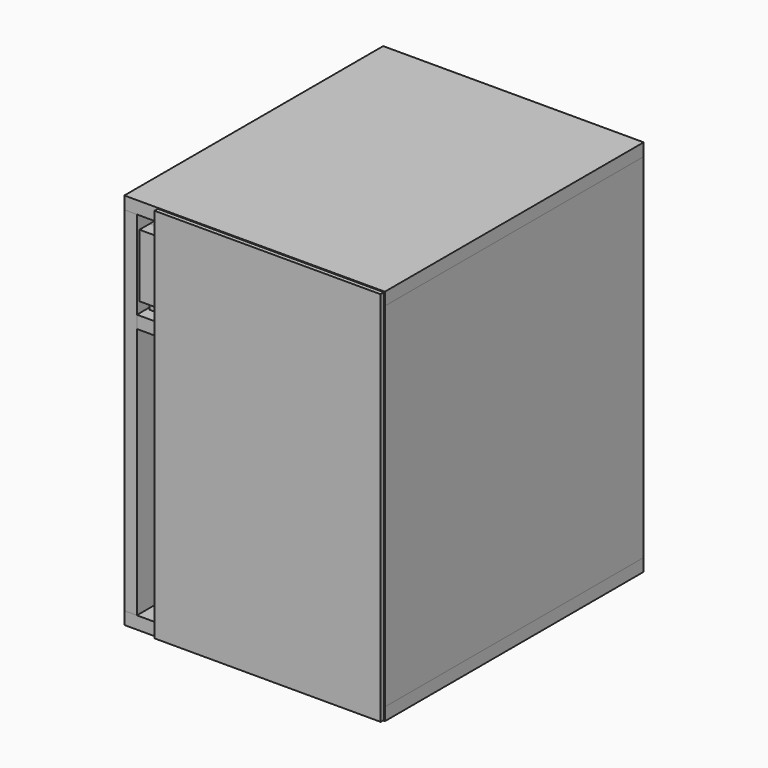
from build123d import *

# Parameters (mm, degrees)
F0_W      = 310
F0_H      = 385
F1_DEPTH  = 15
F2_W      = 15
F2_H      = 385
F3_DEPTH  = 420
F5_W      = 280
F5_H      = 385
F6_DEPTH  = 15
F7_W      = 310
F7_H      = 385
F8_DEPTH  = 15
F9_W      = 269
F9_H      = 448
F10_DEPTH = 5
F11_W     = 274
F11_H     = 100
F12_DEPTH = 15
F13_W     = 274
F13_H     = 15
F14_DEPTH = 355
F15_W     = 274
F15_H     = 75
F16_DEPTH = 15
F17_W     = 15
F17_H     = 355
F18_DEPTH = 75


with BuildPart() as f1:
    # F0 (on Top) → F1 (new body)
    with BuildSketch(Plane.XY):
        with Locations((155, 192.5)):
            Rectangle(F0_W, F0_H)
    extrude(amount=F1_DEPTH)


with BuildPart() as f3:
    # F2 (on face) → F3 (new body)
    with BuildSketch(Plane.XY.offset(15)):
        with Locations((7.5, 192.5)):
            Rectangle(F2_W, F2_H)
    extrude(amount=F3_DEPTH)


with BuildPart() as f3b:
    # F2 (on face) → F3, piece 2 (new body)
    with BuildSketch(Plane.XY.offset(15)):
        with Locations((302.5, 192.5)):
            Rectangle(F2_W, F2_H)
    extrude(amount=F3_DEPTH)


with BuildPart() as f6:
    # F5 (on offset) → F6 (new body)
    with BuildSketch(Plane.XY.offset(315)):
        with Locations((155, 192.5)):
            Rectangle(F5_W, F5_H)
    extrude(amount=F6_DEPTH)


with BuildPart() as f8:
    # F7 (on face) → F8 (new body)
    with BuildSketch(Plane.XY.offset(435)):
        with Locations((155, 192.5)):
            Rectangle(F7_W, F7_H)
    extrude(amount=F8_DEPTH)


with BuildPart() as f10:
    # F9 (on face) → F10 (new body)
    with BuildSketch(Plane.XZ):
        with Locations((174.5, 225)):
            Rectangle(F9_W, F9_H)
    extrude(amount=F10_DEPTH)


with BuildPart() as f12:
    # F11 (on face) → F12 (new body)
    with BuildSketch(Plane(origin=(0, 385, 0), x_dir=(-1, 0, 0), z_dir=(0, 1, 0))):
        with Locations((-155, 380)):
            Rectangle(F11_W, F11_H)
    extrude(amount=-F12_DEPTH)


with BuildPart() as f14:
    # F13 (on face) → F14 (new body)
    with BuildSketch(Plane.XZ.offset(-370)):
        with Locations((155, 337.5)):
            Rectangle(F13_W, F13_H)
    extrude(amount=F14_DEPTH)


with BuildPart() as f16:
    # F15 (on face) → F16 (new body)
    with BuildSketch(Plane.XZ.offset(-15)):
        with Locations((155, 382.5)):
            Rectangle(F15_W, F15_H)
    extrude(amount=F16_DEPTH)


with BuildPart() as f18:
    # F17 (on face) → F18 (new body)
    with BuildSketch(Plane.XY.offset(345)):
        with Locations((25.5, 192.5)):
            Rectangle(F17_W, F17_H)
    extrude(amount=F18_DEPTH)


with BuildPart() as f18b:
    # F17 (on face) → F18, piece 2 (new body)
    with BuildSketch(Plane.XY.offset(345)):
        with Locations((284.5, 192.5)):
            Rectangle(F17_W, F17_H)
    extrude(amount=F18_DEPTH)


solid = Compound([f1.part, f3.part, f3b.part, f6.part, f8.part, f10.part, f12.part, f14.part, f16.part, f18.part, f18b.part])
